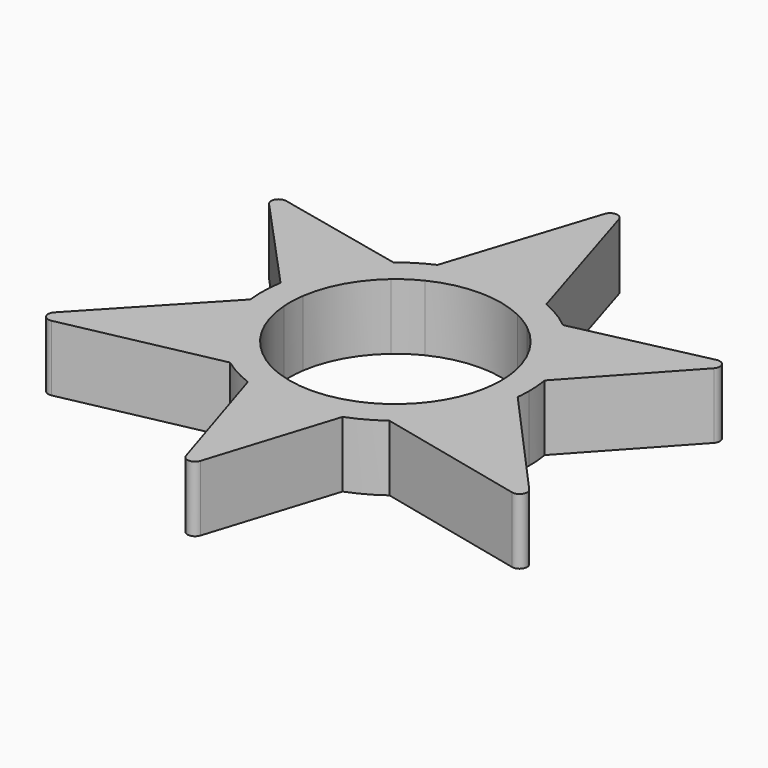
from build123d import *

# Parameters (mm, degrees)
F1_DEPTH = 7
F2_R     = 0.8


with BuildPart() as f1:
    # F0 (on Top) → F1 (new body)
    with BuildSketch(Plane.XY):
        with BuildLine():
            ThreePointArc((-11.4625679205, -0.3505975239), (-10.1827685271, 3.4695920645), (-7.6390571339, 6.5938947591))
            Line((-7.6390571339, 6.5938947591), (-7.0076714784, 8.5541863531))
            Line((-7.0076714784, 8.5541863531), (-9.3501670475, 9.0735051181))
            ThreePointArc((-9.3501670475, 9.0735051181), (-12.6686234927, 5.1686049402), (-14.3911380233, 0.3422872683))
            Line((-14.3911380233, 0.3422872683), (-12.6239753734, -1.5862323543))
            Line((-12.6239753734, -1.5862323543), (-11.4625679205, -0.3505975239))
        make_face()
        with BuildLine():
            Line((-9.3501670475, 9.0735051181), (-7.0076714784, 8.5541863531))
            Line((-7.0076714784, 8.5541863531), (-6.212966645, 11.0215423829))
            ThreePointArc((-6.212966645, 11.0215423829), (-7.8449369293, 10.1495775734), (-9.3501670475, 9.0735051181))
        make_face()
        with BuildLine():
            ThreePointArc((4.5875761687, 8.1629900852), (5.6122116866, 7.5976207804), (6.5725713376, 6.9288684076))
            Line((6.5725713376, 6.9288684076), (6.0890948615, 8.4958687653))
            Line((6.0890948615, 8.4958687653), (4.5875761687, 8.1629900852))
        make_face()
        with BuildLine():
            ThreePointArc((6.5725713376, 6.9288684076), (9.289291325, 3.8809669452), (10.7392942766, 0.0641931433))
            Line((10.7392942766, 0.0641931433), (12.0970688249, -1.445872152))
            Line((12.0970688249, -1.445872152), (13.7356150459, 0.3422872683))
            ThreePointArc((13.7356150459, 0.3422872683), (12.0131005152, 5.1686049402), (8.69464407, 9.0735051181))
            Line((8.69464407, 9.0735051181), (6.0890948615, 8.4958687653))
            Line((6.0890948615, 8.4958687653), (6.5725713376, 6.9288684076))
        make_face()
        with BuildLine():
            ThreePointArc((6.5725713376, 6.9288684076), (9.289291325, 3.8809669452), (10.7392942766, 0.0641931433))
            Line((10.7392942766, 0.0641931433), (12.0970688249, -1.445872152))
            Line((12.0970688249, -1.445872152), (13.7356150459, 0.3422872683))
            ThreePointArc((13.7356150459, 0.3422872683), (12.0131005152, 5.1686049402), (8.69464407, 9.0735051181))
            Line((8.69464407, 9.0735051181), (6.0890948615, 8.4958687653))
            Line((6.0890948615, 8.4958687653), (6.5725713376, 6.9288684076))
        make_face()
        with BuildLine():
            Line((5.5077684532, -12.764958479), (5.9782142888, -11.2728949118))
            ThreePointArc((5.9782142888, -11.2728949118), (4.960108675, -11.8861951148), (3.8829804579, -12.3886600229))
            Line((3.8829804579, -12.3886600229), (5.5077684532, -12.764958479))
        make_face()
        with BuildLine():
            Line((5.5077684532, -12.764958479), (3.8829804579, -12.3886600229))
            ThreePointArc((3.8829804579, -12.3886600229), (-0.1176178174, -13.2044322058), (-4.1458953177, -12.5386610773))
            Line((-4.1458953177, -12.5386610773), (-6.1058388942, -12.9471746451))
            Line((-6.1058388942, -12.9471746451), (-5.3687324646, -15.2849775659))
            ThreePointArc((-5.3687324646, -15.2849775659), (-0.3277614887, -16.2063950598), (4.7132094871, -15.2849775659))
            Line((4.7132094871, -15.2849775659), (5.5077684532, -12.764958479))
        make_face()
        with BuildLine():
            Line((5.5077684532, -12.764958479), (3.8829804579, -12.3886600229))
            ThreePointArc((3.8829804579, -12.3886600229), (-0.1176178174, -13.2044322058), (-4.1458953177, -12.5386610773))
            Line((-4.1458953177, -12.5386610773), (-6.1058388942, -12.9471746451))
            Line((-6.1058388942, -12.9471746451), (-5.3687324646, -15.2849775659))
            ThreePointArc((-5.3687324646, -15.2849775659), (-0.3277614887, -16.2063950598), (4.7132094871, -15.2849775659))
            Line((4.7132094871, -15.2849775659), (5.5077684532, -12.764958479))
        make_face()
        with BuildLine():
            ThreePointArc((-11.5490749237, -2.7592803529), (-11.5705130255, -1.552615562), (-11.4625679205, -0.3505975239))
            Line((-11.4625679205, -0.3505975239), (-12.6239753734, -1.5862323543))
            Line((-12.6239753734, -1.5862323543), (-11.5490749237, -2.7592803529))
        make_face()
        with BuildLine():
            ThreePointArc((-14.3911380233, 0.3422872683), (-12.6686234927, 5.1686049402), (-9.3501670475, 9.0735051181))
            Line((-9.3501670475, 9.0735051181), (-25.7165951106, 12.7018548662))
            Line((-25.7165951106, 12.7018548662), (-14.3911380233, 0.3422872683))
        make_face()
        with BuildLine():
            ThreePointArc((-6.212966645, 11.0215423829), (-0.4843019286, 12.2927450929), (5.270907541, 11.1477037301))
            Line((5.270907541, 11.1477037301), (-0.3277614887, 29.2936049402))
            Line((-0.3277614887, 29.2936049402), (-6.212966645, 11.0215423829))
        make_face()
        with BuildLine():
            ThreePointArc((8.69464407, 9.0735051181), (12.0131005152, 5.1686049402), (13.7356150459, 0.3422872683))
            Line((13.7356150459, 0.3422872683), (25.0610721332, 12.7018548662))
            Line((25.0610721332, 12.7018548662), (8.69464407, 9.0735051181))
        make_face()
        with BuildLine():
            Line((26.6844982561, -17.6694572527), (13.8494548887, -3.3948093907))
            ThreePointArc((13.8494548887, -3.3948093907), (12.0677970589, -8.9858067203), (8.1842092496, -13.3848181422))
            Line((8.1842092496, -13.3848181422), (26.6844982561, -17.6694572527))
        make_face()
        with BuildLine():
            Line((-0.3277614887, -31.2728949118), (4.7132094871, -15.2849775659))
            ThreePointArc((4.7132094871, -15.2849775659), (-0.3277614887, -16.2063950598), (-5.3687324646, -15.2849775659))
            Line((-5.3687324646, -15.2849775659), (-0.3277614887, -31.2728949118))
        make_face()
        with BuildLine():
            Line((-27.4922617986, -17.4047743572), (-8.6996752228, -13.4878112968))
            ThreePointArc((-8.6996752228, -13.4878112968), (-12.6366407208, -9.136505926), (-14.4863745566, -3.5676603994))
            Line((-14.4863745566, -3.5676603994), (-27.4922617986, -17.4047743572))
        make_face()
        with BuildLine():
            ThreePointArc((-11.4625679205, -0.3505975239), (-10.1827685271, 3.4695920645), (-7.6390571339, 6.5938947591))
            Line((-7.6390571339, 6.5938947591), (-7.0076714784, 8.5541863531))
            Line((-7.0076714784, 8.5541863531), (-9.3501670475, 9.0735051181))
            ThreePointArc((-9.3501670475, 9.0735051181), (-12.6686234927, 5.1686049402), (-14.3911380233, 0.3422872683))
            Line((-14.3911380233, 0.3422872683), (-12.6239753734, -1.5862323543))
            Line((-12.6239753734, -1.5862323543), (-11.4625679205, -0.3505975239))
        make_face()
        with BuildLine():
            Line((-5.3687324646, -15.2849775659), (-6.1058388942, -12.9471746451))
            Line((-6.1058388942, -12.9471746451), (-8.6996752228, -13.4878112968))
            ThreePointArc((-8.6996752228, -13.4878112968), (-7.0941357549, -14.4974747299), (-5.3687324646, -15.2849775659))
        make_face()
        with BuildLine():
            Line((13.7356150459, 0.3422872683), (12.0970688249, -1.445872152))
            Line((12.0970688249, -1.445872152), (13.8494548887, -3.3948093907))
            ThreePointArc((13.8494548887, -3.3948093907), (13.9040309735, -2.6765223477), (13.9222385113, -1.9563950598))
            ThreePointArc((13.9222385113, -1.9563950598), (13.8755060159, -0.8032722602), (13.7356150459, 0.3422872683))
        make_face()
        with BuildLine():
            Line((-14.4863745566, -3.5676603994), (-12.6239753734, -1.5862323543))
            Line((-12.6239753734, -1.5862323543), (-14.3911380233, 0.3422872683))
            ThreePointArc((-14.3911380233, 0.3422872683), (-14.5735361946, -1.6094036646), (-14.4863745566, -3.5676603994))
        make_face()
        with BuildLine():
            Line((-6.1058388942, -12.9471746451), (-6.6337372663, -11.2728949118))
            ThreePointArc((-6.6337372663, -11.2728949118), (-10.0705472813, -7.5813950598), (-11.5490749237, -2.7592803529))
            Line((-11.5490749237, -2.7592803529), (-12.6239753734, -1.5862323543))
            Line((-12.6239753734, -1.5862323543), (-14.4863745566, -3.5676603994))
            ThreePointArc((-14.4863745566, -3.5676603994), (-12.6366407208, -9.136505926), (-8.6996752228, -13.4878112968))
            Line((-8.6996752228, -13.4878112968), (-6.1058388942, -12.9471746451))
        make_face()
        with BuildLine():
            Line((-6.1058388942, -12.9471746451), (-4.1458953177, -12.5386610773))
            ThreePointArc((-4.1458953177, -12.5386610773), (-5.4292259674, -11.9832370438), (-6.6337372663, -11.2728949118))
            Line((-6.6337372663, -11.2728949118), (-6.1058388942, -12.9471746451))
        make_face()
        with BuildLine():
            Line((8.1842092496, -13.3848181422), (5.5077684532, -12.764958479))
            Line((5.5077684532, -12.764958479), (4.7132094871, -15.2849775659))
            ThreePointArc((4.7132094871, -15.2849775659), (6.5149871356, -14.4559667031), (8.1842092496, -13.3848181422))
        make_face()
        with BuildLine():
            Line((12.0970688249, -1.445872152), (10.8935519463, -2.7592803529))
            ThreePointArc((10.8935519463, -2.7592803529), (9.4150243038, -7.5813950598), (5.9782142888, -11.2728949118))
            Line((5.9782142888, -11.2728949118), (5.5077684532, -12.764958479))
            Line((5.5077684532, -12.764958479), (8.1842092496, -13.3848181422))
            ThreePointArc((8.1842092496, -13.3848181422), (12.0677970589, -8.9858067203), (13.8494548887, -3.3948093907))
            Line((13.8494548887, -3.3948093907), (12.0970688249, -1.445872152))
        make_face()
        with BuildLine():
            ThreePointArc((10.7392942766, 0.0641931433), (10.8764091044, -0.9419684632), (10.9222385113, -1.9563950598))
            ThreePointArc((10.9222385113, -1.9563950598), (10.9150645827, -2.3580938627), (10.8935519463, -2.7592803529))
            Line((10.8935519463, -2.7592803529), (12.0970688249, -1.445872152))
            Line((12.0970688249, -1.445872152), (10.7392942766, 0.0641931433))
        make_face()
        with BuildLine():
            ThreePointArc((-5.2430991461, 8.1629900852), (-0.3277614887, 9.2936049402), (4.5875761687, 8.1629900852))
            Line((4.5875761687, 8.1629900852), (6.0890948615, 8.4958687653))
            Line((6.0890948615, 8.4958687653), (5.270907541, 11.1477037301))
            ThreePointArc((5.270907541, 11.1477037301), (-0.4843019286, 12.2927450929), (-6.212966645, 11.0215423829))
            Line((-6.212966645, 11.0215423829), (-7.0076714784, 8.5541863531))
            Line((-7.0076714784, 8.5541863531), (-5.2430991461, 8.1629900852))
        make_face()
        with BuildLine():
            Line((5.270907541, 11.1477037301), (6.0890948615, 8.4958687653))
            Line((6.0890948615, 8.4958687653), (8.69464407, 9.0735051181))
            ThreePointArc((8.69464407, 9.0735051181), (7.0559726953, 10.2314254795), (5.270907541, 11.1477037301))
        make_face()
        with BuildLine():
            ThreePointArc((-7.6390571339, 6.5938947591), (-6.4912147022, 7.4549993366), (-5.2430991461, 8.1629900852))
            Line((-5.2430991461, 8.1629900852), (-7.0076714784, 8.5541863531))
            Line((-7.0076714784, 8.5541863531), (-7.6390571339, 6.5938947591))
        make_face()
    extrude(amount=F1_DEPTH)

    # F2
    f2_edges = [f1.edges().sort_by_distance(p)[0] for p in [
        (-0.327761, -31.272895, 3.5),
        (26.684498, -17.669457, 3.5),
        (25.061072, 12.701855, 3.5),
        (-27.492262, -17.404774, 3.5),
        (-25.716595, 12.701855, 3.5),
        (-0.327761, 29.293605, 3.5),
    ]]
    fillet(f2_edges, radius=F2_R)


solid = f1.part
